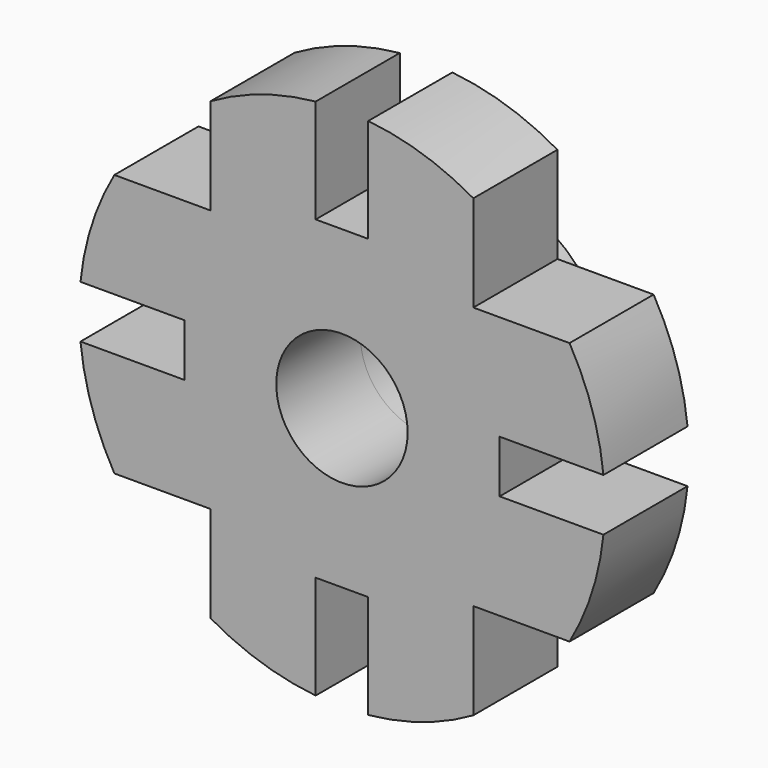
from build123d import *

# Parameters (mm, degrees)
F0_R     = 28.575
F0_R_2   = 15.875
F1_DEPTH = 25.4
F2_DEPTH = 19.05


with BuildPart() as f1:
    # F0 (on Front) → F1 (new body)
    with BuildSketch(Plane.XZ):
        with BuildLine():
            Line((38.1, 6.35), (63.181702, 6.35))
            ThreePointArc((63.181702, 6.35), (60.436597, 19.485066), (54.992613, 31.75))
            Line((54.992613, 31.75), (31.75, 31.75))
            Line((31.75, 31.75), (31.75, 54.992613))
            ThreePointArc((31.75, 54.992613), (19.485066, 60.436597), (6.35, 63.181702))
            Line((6.35, 63.181702), (6.35, 38.1))
            Line((6.35, 38.1), (0, 38.1))
            Line((0, 38.1), (-6.35, 38.1))
            Line((-6.35, 38.1), (-6.35, 63.181702))
            ThreePointArc((-6.35, 63.181702), (-19.485066, 60.436597), (-31.75, 54.992613))
            Line((-31.75, 54.992613), (-31.75, 31.75))
            Line((-31.75, 31.75), (-54.992613, 31.75))
            ThreePointArc((-54.992613, 31.75), (-60.436597, 19.485066), (-63.181702, 6.35))
            Line((-63.181702, 6.35), (-38.1, 6.35))
            Line((-38.1, 6.35), (-38.1, 0))
            Line((-38.1, 0), (-38.1, -6.35))
            Line((-38.1, -6.35), (-63.181702, -6.35))
            ThreePointArc((-63.181702, -6.35), (-60.436597, -19.485066), (-54.992613, -31.75))
            Line((-54.992613, -31.75), (-31.75, -31.75))
            Line((-31.75, -31.75), (-31.75, -54.992613))
            ThreePointArc((-31.75, -54.992613), (-19.485066, -60.436597), (-6.35, -63.181702))
            Line((-6.35, -63.181702), (-6.35, -38.1))
            Line((-6.35, -38.1), (0, -38.1))
            Line((0, -38.1), (6.35, -38.1))
            Line((6.35, -38.1), (6.35, -63.181702))
            ThreePointArc((6.35, -63.181702), (19.485066, -60.436597), (31.75, -54.992613))
            Line((31.75, -54.992613), (31.75, -31.75))
            Line((31.75, -31.75), (54.992613, -31.75))
            ThreePointArc((54.992613, -31.75), (60.436597, -19.485066), (63.181702, -6.35))
            Line((63.181702, -6.35), (38.1, -6.35))
            Line((38.1, -6.35), (38.1, 0))
            Line((38.1, 0), (38.1, 6.35))
        make_face()
        Circle(F0_R, mode=Mode.SUBTRACT)
        Circle(F0_R)
        Circle(F0_R_2, mode=Mode.SUBTRACT)
    extrude(amount=F1_DEPTH)

    # F0 (on Front) → F2 (join)
    with BuildSketch(Plane.XZ):
        Circle(F0_R)
        Circle(F0_R_2, mode=Mode.SUBTRACT)
    extrude(amount=-F2_DEPTH)


solid = f1.part
